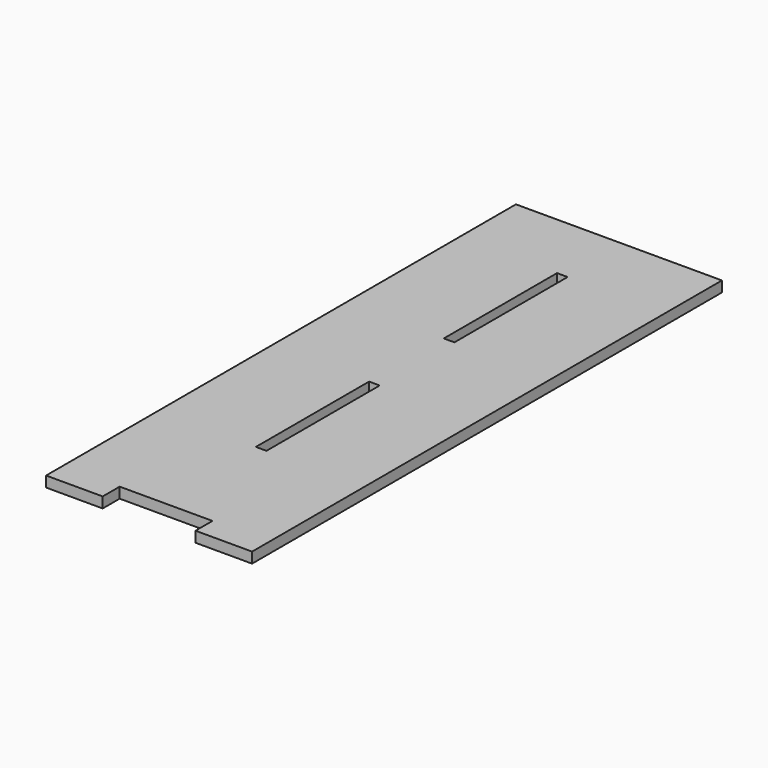
from build123d import *

# Parameters (mm, degrees)
F1_DEPTH = 3.75
F2_W     = 3.75
F2_H     = 50
F3_DEPTH = 3.75


with BuildPart() as f1:
    # F0 (on Top) → F1 (new body)
    with BuildSketch(Plane.XY):
        Polygon((20, -23.677632), (20, -16.177632), (52.782, -16.177632), (52.782, -23.677632), (72.782, -23.677632), (72.782, -16.177632), (72.782, 183.822368), (0, 183.822368), (0, -16.177632), (0, -23.677632), align=None)
    extrude(amount=F1_DEPTH)

    # F2 (on face) → F3 (cut)
    with BuildSketch(Plane.XY.offset(3.75)):
        with Locations((36.391, 50.822368)):
            Rectangle(F2_W, F2_H)
        with Locations((36.391, 133.822368)):
            Rectangle(F2_W, F2_H)
    extrude(amount=-F3_DEPTH, mode=Mode.SUBTRACT)


solid = f1.part
